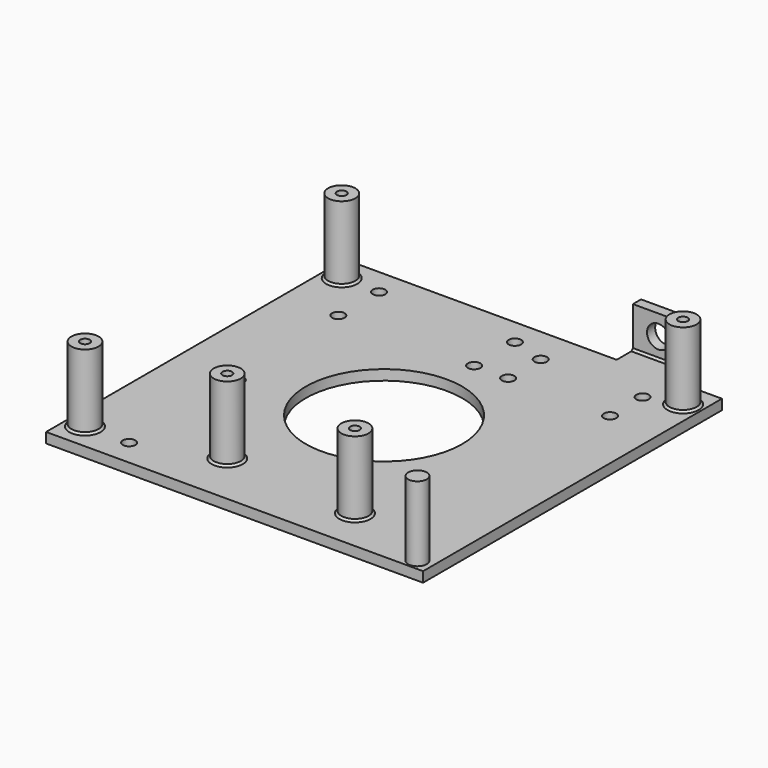
from build123d import *

# Parameters (mm, degrees)
SKETCH001_R                          = 4
SKETCH001_R_2                        = 1.4
SKETCH001_R_3                        = 2.75
EXTRUDE001_DEPTH                     = 25
SKETCH002_AS_DRAWN_W                 = 15
SKETCH002_AS_DRAWN_H                 = 13
SKETCH002_AS_DRAWN_R                 = 3.35
EXTRUDE002_DEPTH                     = 3
EXTRUDE002_ONTO_SKETCH002_ROLL_ANGLE = 90
SKETCH_R                             = 1.9
SKETCH_R_2                           = 23
SKETCH_R_3                           = 1.85
EXTRUDE_DEPTH                        = 3
CHAMFER_SIZE                         = 0.6


with BuildPart() as extrude001:
    # Sketch001 → Extrude001 (new body)
    with BuildSketch(Plane.XY):
        with Locations((-50.25, -47.25)):
            Circle(SKETCH001_R)
        with Locations((-50.25, -47.25)):
            Circle(SKETCH001_R_2, mode=Mode.SUBTRACT)
        with Locations((50.25, 47.25)):
            Circle(SKETCH001_R)
        with Locations((50.25, 47.25)):
            Circle(SKETCH001_R_2, mode=Mode.SUBTRACT)
        with Locations((-50.25, 47.25)):
            Circle(SKETCH001_R)
        with Locations((-50.25, 47.25)):
            Circle(SKETCH001_R_2, mode=Mode.SUBTRACT)
        with Locations((25.25, -42.25)):
            Circle(SKETCH001_R)
        with Locations((25.25, -42.25)):
            Circle(SKETCH001_R_2, mode=Mode.SUBTRACT)
        with Locations((51.25, -51.75)):
            Circle(SKETCH001_R_3)
        with Locations((-14.75, -39.25)):
            Circle(SKETCH001_R)
        with Locations((-14.75, -39.25)):
            Circle(SKETCH001_R_2, mode=Mode.SUBTRACT)
    extrude(amount=EXTRUDE001_DEPTH)


with BuildPart() as extrude002:
    # Sketch002 as drawn → Extrude002 (new)
    with BuildSketch(Plane.XY):
        with Locations((0, 6.5)):
            Rectangle(SKETCH002_AS_DRAWN_W, SKETCH002_AS_DRAWN_H)
        with Locations((0, 7)):
            Circle(SKETCH002_AS_DRAWN_R, mode=Mode.SUBTRACT)
    extrude(amount=-EXTRUDE002_DEPTH)


with BuildPart() as extrude002_1:
    # Extrude002 onto Sketch002 roll: moved
    add(extrude002.part.rotate(Axis((0, 0, 0), (1, 0, 0)), EXTRUDE002_ONTO_SKETCH002_ROLL_ANGLE))


with BuildPart() as extrude002_2:
    # Extrude002 onto Sketch002 placement: moved
    add(extrude002_1.part)


with BuildPart() as extrude002_3:
    # Extrude002 placement: moved
    add(extrude002_2.part.moved(Location((32, 61, 2))))


with BuildPart() as chamfer_body:
    # Sketch → Extrude (new body)
    with BuildSketch(Plane.XY):
        Polygon((55.5, 55), (55.5, -55), (-55.5, -55), (-55.5, 55), (24.5, 55), (24.5, 65), (39.5, 65), (39.5, 55), align=None)
        with Locations((-50.25, -47.25)):
            Circle(SKETCH_R, mode=Mode.SUBTRACT)
        Circle(SKETCH_R_2, mode=Mode.SUBTRACT)
        with Locations((-39.25, 47.25)):
            Circle(SKETCH_R_3, mode=Mode.SUBTRACT)
        with Locations((0.75, 47.25)):
            Circle(SKETCH_R_3, mode=Mode.SUBTRACT)
        with Locations((-39.25, 32.25)):
            Circle(SKETCH_R_3, mode=Mode.SUBTRACT)
        with Locations((0.75, 32.25)):
            Circle(SKETCH_R_3, mode=Mode.SUBTRACT)
        with Locations((10.75, 44.25)):
            Circle(SKETCH_R_3, mode=Mode.SUBTRACT)
        with Locations((40.75, 44.25)):
            Circle(SKETCH_R_3, mode=Mode.SUBTRACT)
        with Locations((10.75, 32.25)):
            Circle(SKETCH_R_3, mode=Mode.SUBTRACT)
        with Locations((40.75, 32.25)):
            Circle(SKETCH_R_3, mode=Mode.SUBTRACT)
        with Locations((50.25, 47.25)):
            Circle(SKETCH_R, mode=Mode.SUBTRACT)
        with Locations((-50.25, 47.25)):
            Circle(SKETCH_R, mode=Mode.SUBTRACT)
        with Locations((25.25, -42.25)):
            Circle(SKETCH_R, mode=Mode.SUBTRACT)
        with Locations((-14.75, -39.25)):
            Circle(SKETCH_R, mode=Mode.SUBTRACT)
        with Locations((-37.25, -7.25)):
            Circle(SKETCH_R_3, mode=Mode.SUBTRACT)
        with Locations((-37.25, -47.25)):
            Circle(SKETCH_R_3, mode=Mode.SUBTRACT)
    extrude(amount=EXTRUDE_DEPTH)

    # Fusion: union Extrude001, Extrude002
    add(extrude001.part)
    add(extrude002_3.part)

    # Chamfer
    chamfer_edges = [chamfer_body.edges().sort_by_distance(p)[0] for p in [
        (32, 61, 3),
        (32, 64, 3),
        (-54.25, -47.25, 3),
        (-18.75, -39.25, 3),
        (21.25, -42.25, 3),
        (-54.25, 47.25, 3),
        (46.25, 47.25, 3),
    ]]
    chamfer(chamfer_edges, length=CHAMFER_SIZE)


solid = chamfer_body.part
